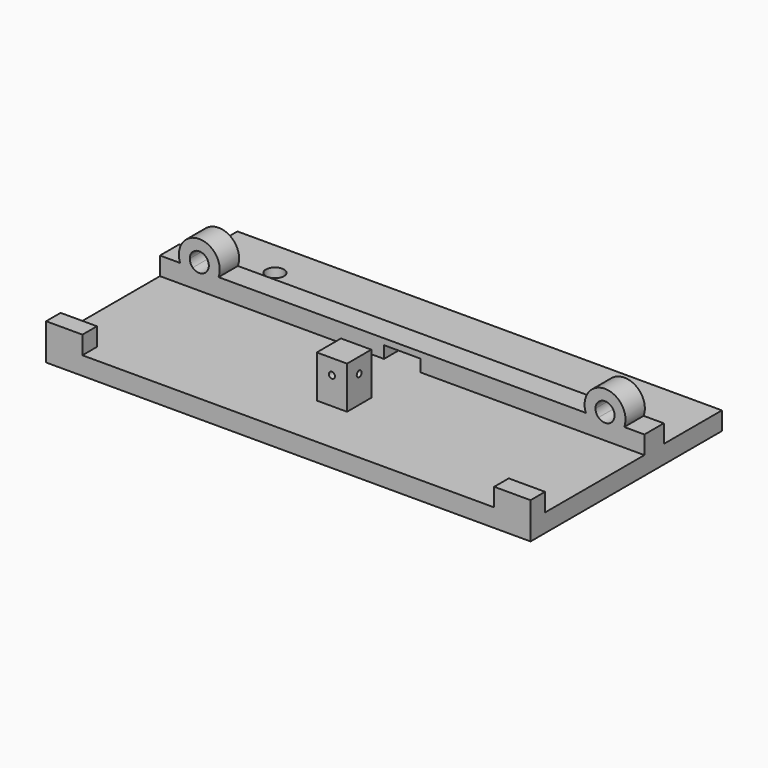
from build123d import *

# Parameters (mm, degrees)
F0_W      = 80
F0_H      = 27.5
F1_DEPTH  = 3
F2_W      = 80
F2_H      = 4
F2_W_2    = 6
F2_H_2    = 3
F3_DEPTH  = 3
F2_W_3    = 5
F2_H_3    = 5
F4_DEPTH  = 7
F5_R      = 0.5
F6_DEPTH  = 5
F7_W      = 6
F7_H      = 2
F8_DEPTH  = 4
F10_DEPTH = 4
F11_DEPTH = 4
F12_DEPTH = 4
F13_DEPTH = 4
F15_DEPTH = 12
F16_R     = 1.5
F17_DEPTH = 3
F18_R     = 0.5
F19_DEPTH = 42.501


with BuildPart() as f1:
    # F0 (on Top) → F1 (new body)
    with BuildSketch(Plane.XY):
        Rectangle(F0_W, F0_H)
    extrude(amount=F1_DEPTH)

    # F2 (on face) → F3 (join)
    with BuildSketch(Plane.XY.offset(3)):
        with Locations((0, 11.75)):
            Rectangle(F2_W, F2_H)
        with Locations((-37, -12.25)):
            Rectangle(F2_W_2, F2_H_2)
        with Locations((37, -12.25)):
            Rectangle(F2_W_2, F2_H_2)
    extrude(amount=F3_DEPTH)

    # F2 (on face) → F4 (join)
    with BuildSketch(Plane.XY.offset(3)):
        with Locations((0, -2.25)):
            Rectangle(F2_W_3, F2_H_3)
    extrude(amount=F4_DEPTH)

    # F5 (on face) → F6 (cut)
    with BuildSketch(Plane.XZ.offset(4.75)):
        with Locations((0, 7.5)):
            Circle(F5_R)
    extrude(amount=-F6_DEPTH, mode=Mode.SUBTRACT)

    # F7 (on face) → F8 (cut, through all)
    with BuildSketch(Plane(origin=(0, 13.75, 0), x_dir=(-1, 0, 0), z_dir=(0, 1, 0))):
        with Locations((0, 4)):
            Rectangle(F7_W, F7_H)
    extrude(amount=-F8_DEPTH, mode=Mode.SUBTRACT)

    # F9 (on face) → F10 (join)
    with BuildSketch(Plane(origin=(0, 13.75, 0), x_dir=(-1, 0, 0), z_dir=(0, 1, 0))):
        with BuildLine():
            ThreePointArc((-30.3269691146, 6), (-30.1758757365, 6.5661996225), (-30.125, 7.15))
            ThreePointArc((-30.125, 7.15), (-34.0838003775, 10.4741242635), (-36.6730308854, 6))
            Line((-36.6730308854, 6), (-34.5761621625, 6))
            ThreePointArc((-34.5761621625, 6), (-34.1267653445, 8.5949187531), (-31.925, 7.15))
            ThreePointArc((-31.925, 7.15), (-32.0550812469, 6.5232346555), (-32.4238378375, 6))
            Line((-32.4238378375, 6), (-30.3269691146, 6))
        make_face()
        with BuildLine():
            Line((-34.5761621625, 6), (-36.6730308854, 6))
            ThreePointArc((-36.6730308854, 6), (-33.5, 3.775), (-30.3269691146, 6))
            Line((-30.3269691146, 6), (-32.4238378375, 6))
            ThreePointArc((-32.4238378375, 6), (-33.5, 5.575), (-34.5761621625, 6))
        make_face()
        with BuildLine():
            Line((-32.4238378375, 6), (-34.5761621625, 6))
            ThreePointArc((-34.5761621625, 6), (-33.5, 5.575), (-32.4238378375, 6))
        make_face()
        with BuildLine():
            ThreePointArc((-31.925, 7.15), (-34.1267653445, 8.5949187531), (-34.5761621625, 6))
            Line((-34.5761621625, 6), (-32.4238378375, 6))
            ThreePointArc((-32.4238378375, 6), (-32.0550812469, 6.5232346555), (-31.925, 7.15))
        make_face()
    extrude(amount=-F10_DEPTH)

    # F9 (on face) → F11 (cut, through all)
    with BuildSketch(Plane(origin=(0, 13.75, 0), x_dir=(-1, 0, 0), z_dir=(0, 1, 0))):
        with BuildLine():
            Line((-32.4238378375, 6), (-34.5761621625, 6))
            ThreePointArc((-34.5761621625, 6), (-33.5, 5.575), (-32.4238378375, 6))
        make_face()
        with BuildLine():
            ThreePointArc((-31.925, 7.15), (-34.1267653445, 8.5949187531), (-34.5761621625, 6))
            Line((-34.5761621625, 6), (-32.4238378375, 6))
            ThreePointArc((-32.4238378375, 6), (-32.0550812469, 6.5232346555), (-31.925, 7.15))
        make_face()
    extrude(amount=-F11_DEPTH, mode=Mode.SUBTRACT)

    # F9 (on face) → F12 (join)
    with BuildSketch(Plane(origin=(0, 13.75, 0), x_dir=(-1, 0, 0), z_dir=(0, 1, 0))):
        with BuildLine():
            ThreePointArc((36.875, 7.15), (32.9161996225, 10.4741242635), (30.3269691146, 6))
            Line((30.3269691146, 6), (32.4238378375, 6))
            ThreePointArc((32.4238378375, 6), (32.8732346555, 8.5949187531), (35.075, 7.15))
            ThreePointArc((35.075, 7.15), (34.9449187531, 6.5232346555), (34.5761621625, 6))
            Line((34.5761621625, 6), (36.6730308854, 6))
            ThreePointArc((36.6730308854, 6), (36.8241242635, 6.5661996225), (36.875, 7.15))
        make_face()
        with BuildLine():
            ThreePointArc((35.075, 7.15), (32.8732346555, 8.5949187531), (32.4238378375, 6))
            Line((32.4238378375, 6), (34.5761621625, 6))
            ThreePointArc((34.5761621625, 6), (34.9449187531, 6.5232346555), (35.075, 7.15))
        make_face()
        with BuildLine():
            Line((34.5761621625, 6), (32.4238378375, 6))
            ThreePointArc((32.4238378375, 6), (33.5, 5.575), (34.5761621625, 6))
        make_face()
        with BuildLine():
            Line((32.4238378375, 6), (30.3269691146, 6))
            ThreePointArc((30.3269691146, 6), (33.5, 3.775), (36.6730308854, 6))
            Line((36.6730308854, 6), (34.5761621625, 6))
            ThreePointArc((34.5761621625, 6), (33.5, 5.575), (32.4238378375, 6))
        make_face()
    extrude(amount=-F12_DEPTH)

    # F9 (on face) → F13 (cut, through all)
    with BuildSketch(Plane(origin=(0, 13.75, 0), x_dir=(-1, 0, 0), z_dir=(0, 1, 0))):
        with BuildLine():
            ThreePointArc((35.075, 7.15), (32.8732346555, 8.5949187531), (32.4238378375, 6))
            Line((32.4238378375, 6), (34.5761621625, 6))
            ThreePointArc((34.5761621625, 6), (34.9449187531, 6.5232346555), (35.075, 7.15))
        make_face()
        with BuildLine():
            Line((34.5761621625, 6), (32.4238378375, 6))
            ThreePointArc((32.4238378375, 6), (33.5, 5.575), (34.5761621625, 6))
        make_face()
    extrude(amount=-F13_DEPTH, mode=Mode.SUBTRACT)

    # F14 (on face) → F15 (join)
    with BuildSketch(Plane(origin=(0, 13.75, 0), x_dir=(-1, 0, 0), z_dir=(0, 1, 0))):
        Polygon((-40, 3), (-40, 0), (40, 0), (40, 3), (3, 3), (-3, 3), align=None)
    extrude(amount=F15_DEPTH)

    # F16 (on face) → F17 (cut, through all)
    with BuildSketch(Plane.XY.offset(3)):
        with Locations((29, 19.75)):
            Circle(F16_R)
        with Locations((-29, 19.75)):
            Circle(F16_R)
    extrude(amount=-F17_DEPTH, mode=Mode.SUBTRACT)

    # F18 (on face) → F19 (cut, through all)
    with BuildSketch(Plane(origin=(-2.5, 0, 0), x_dir=(0, -1, 0), z_dir=(-1, 0, 0))):
        with Locations((2.25, 7.5)):
            Circle(F18_R)
    extrude(amount=-F19_DEPTH, mode=Mode.SUBTRACT)


solid = f1.part
